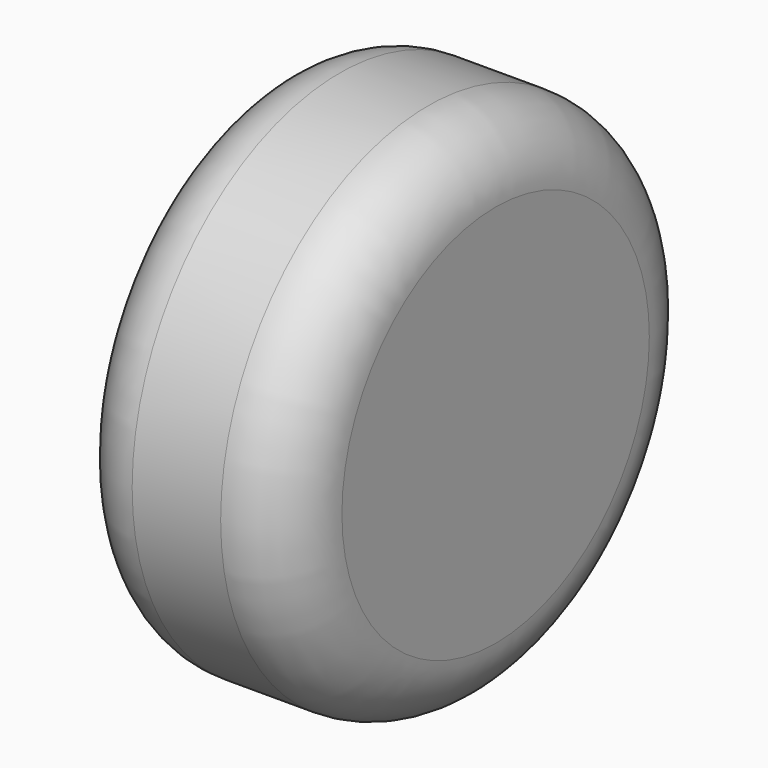
from build123d import *

# Parameters (mm, degrees)
F0_R     = 7.0866
F1_DEPTH = 6.096
F2_R     = 1.839631


with BuildPart() as f1:
    # F0 (on Right) → F1 (new body)
    with BuildSketch(Plane.YZ):
        Circle(F0_R)
    extrude(amount=F1_DEPTH)

    # F2
    f2_edges = [f1.edges().sort_by_distance(p)[0] for p in [
        (3.048, 7.0866, 0),
        (0, -7.0866, 0),
        (6.096, -7.0866, 0),
    ]]
    fillet(f2_edges, radius=F2_R)


solid = f1.part
